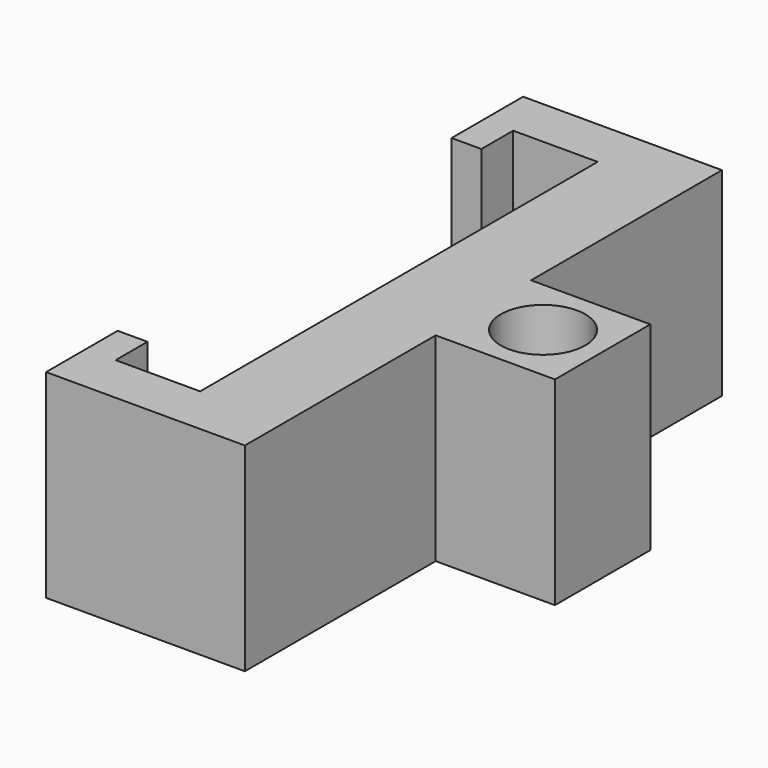
from build123d import *

# Parameters (mm, degrees)
F1_DEPTH = 20
F2_R     = 4.25
F3_DEPTH = 20


with BuildPart() as f1:
    # F0 (on Top) → F1 (new body)
    with BuildSketch(Plane.XY):
        Polygon((3.257158, 63.029949), (0.257158, 63.029949), (0.257158, 54.029949), (3.257158, 54.029949), (3.257158, 58.029949), (11.757158, 58.029949), (11.757158, 8.029949), (3.257158, 8.029949), (3.257158, 12.029949), (0.257158, 12.029949), (0.257158, 3.029949), (3.257158, 3.029949), (20.257158, 3.029949), (20.257158, 27.029949), (32.257158, 27.029949), (32.257158, 39.029949), (20.257158, 39.029949), (20.257158, 63.029949), align=None)
    extrude(amount=F1_DEPTH)

    # F2 (on face) → F3 (cut)
    with BuildSketch(Plane.XY.offset(20)):
        with Locations((26.257158, 33.029949)):
            Circle(F2_R)
    extrude(amount=-F3_DEPTH, mode=Mode.SUBTRACT)


solid = f1.part
